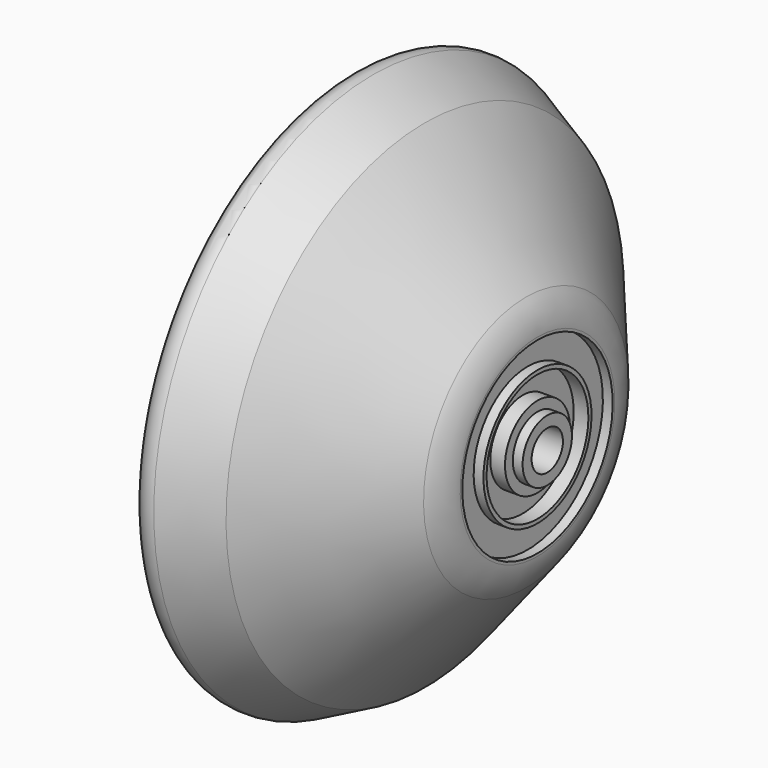
from build123d import *


with BuildPart() as f1:
    # F0 (on Front) → F1 (revolve)
    with BuildSketch(Plane.XZ):
        with BuildLine():
            Line((-5, 2), (-1.4, 2))
            Line((-1.4, 2), (-1.4, 3.15))
            Line((-1.4, 3.15), (-2.4, 3.15))
            Line((-2.4, 3.15), (-2.4, 4.15))
            Line((-2.4, 4.15), (-3.9, 4.15))
            Line((-3.9, 4.15), (-3.9, 6.5))
            Line((-3.9, 6.5), (-2.4, 6.5))
            Line((-2.4, 6.5), (-2.4, 6.9))
            Line((-2.4, 6.9), (-3.4, 6.9))
            Line((-3.4, 6.9), (-3.4, 9.6))
            Line((-3.4, 9.6), (-2.4, 9.6))
            Line((-2.4, 9.6), (-2.4, 9.871489))
            ThreePointArc((-2.4, 9.871489), (-2.701537, 11.58159), (-3.569778, 13.085427))
            Line((-3.569778, 13.085427), (-13.9, 25.396507))
            Line((-13.9, 25.396507), (-19.197218, 28))
            ThreePointArc((-19.197218, 28), (-20.775245, 27.747433), (-21.5, 26.323112))
            Line((-21.5, 26.323112), (-20.681578, 23.602657))
            ThreePointArc((-20.681578, 23.602657), (-20.116498, 22.971001), (-19.269465, 23))
            ThreePointArc((-19.269465, 23), (-15.347916, 23.535442), (-11.946147, 21.512272))
            Line((-11.946147, 21.512272), (-5.078101, 13.327253))
            Line((-5.078101, 13.327253), (-5.205046, 13.155529))
            ThreePointArc((-5.205046, 13.155529), (-5.27897, 12.858441), (-5.12117, 12.596096))
            Line((-5.12117, 12.596096), (-4.771666, 12.33773))
            ThreePointArc((-4.771666, 12.33773), (-4.682138, 12.231581), (-4.65, 12.096489))
            Line((-4.65, 12.096489), (-4.65, 3.995528))
            Line((-4.65, 3.995528), (-6.571659, 0))
            Line((-6.571659, 0), (-6.154701, 0))
            Line((-6.154701, 0), (-5, 2))
        make_face()
    revolve(axis=Axis((-6.36318, 0, 0), (-1, 0, 0)))


solid = f1.part
